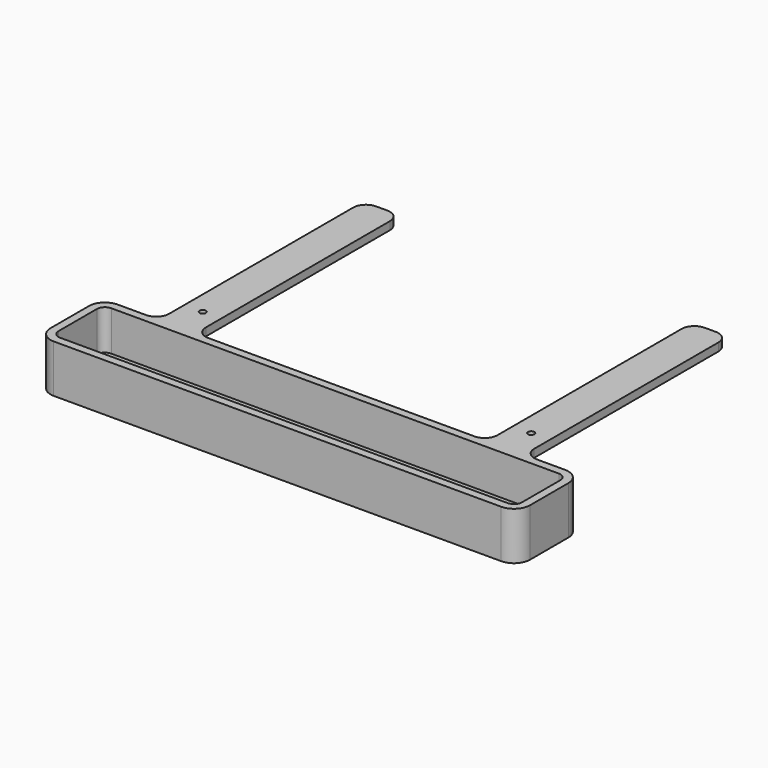
from build123d import *

# Parameters (mm, degrees)
F1_DEPTH = 15
F2_T     = -2.5
F3_DEPTH = 3
F4_DEPTH = 4
F5_R     = 0.5
F6_R     = 1
F7_START = 12.5
F0_R     = 1
F7_DEPTH = 2.5


with BuildPart() as f1:
    # F0 (on Top) → F1 (new body)
    with BuildSketch(Plane.XY):
        with BuildLine():
            ThreePointArc((75, 7.5), (73.5355339059, 11.0355339059), (70, 12.5))
            Line((70, 12.5), (61.1287162602, 12.5))
            Line((61.1287162602, 12.5), (41.6287162602, 12.5))
            Line((41.6287162602, 12.5), (-41.6287162602, 12.5))
            Line((-41.6287162602, 12.5), (-61.1287162602, 12.5))
            Line((-61.1287162602, 12.5), (-70, 12.5))
            ThreePointArc((-70, 12.5), (-73.5355339059, 11.0355339059), (-75, 7.5))
            Line((-75, 7.5), (-75, -7.5))
            ThreePointArc((-75, -7.5), (-73.5355339059, -11.0355339059), (-70, -12.5))
            Line((-70, -12.5), (70, -12.5))
            ThreePointArc((70, -12.5), (73.5355339059, -11.0355339059), (75, -7.5))
            Line((75, -7.5), (75, 7.5))
        make_face()
        with BuildLine():
            Line((-66.8997643389, 3), (66.8997643389, 3))
            ThreePointArc((66.8997643389, 3), (68.0313018263, 2.5313018263), (68.5, 1.3997643389))
            Line((68.5, 1.3997643389), (68.5, -1.3997643389))
            ThreePointArc((68.5, -1.3997643389), (68.0313018263, -2.5313018263), (66.8997643389, -3))
            Line((66.8997643389, -3), (-66.8997643389, -3))
            ThreePointArc((-66.8997643389, -3), (-68.0313018263, -2.5313018263), (-68.5, -1.3997643389))
            Line((-68.5, -1.3997643389), (-68.5, 1.3997643389))
            ThreePointArc((-68.5, 1.3997643389), (-68.0313018263, 2.5313018263), (-66.8997643389, 3))
        make_face(mode=Mode.SUBTRACT)
        with BuildLine():
            ThreePointArc((68.5, 1.3997643389), (68.0313018263, 2.5313018263), (66.8997643389, 3))
            Line((66.8997643389, 3), (-66.8997643389, 3))
            ThreePointArc((-66.8997643389, 3), (-68.0313018263, 2.5313018263), (-68.5, 1.3997643389))
            Line((-68.5, 1.3997643389), (-68.5, -1.3997643389))
            ThreePointArc((-68.5, -1.3997643389), (-68.0313018263, -2.5313018263), (-66.8997643389, -3))
            Line((-66.8997643389, -3), (66.8997643389, -3))
            ThreePointArc((66.8997643389, -3), (68.0313018263, -2.5313018263), (68.5, -1.3997643389))
            Line((68.5, -1.3997643389), (68.5, 1.3997643389))
        make_face()
        with BuildLine():
            ThreePointArc((67.5, -0.3997643389), (67.0313018263, -1.5313018263), (65.8997643389, -2))
            Line((65.8997643389, -2), (-65.8997643389, -2))
            ThreePointArc((-65.8997643389, -2), (-67.0313018263, -1.5313018263), (-67.5, -0.3997643389))
            Line((-67.5, -0.3997643389), (-67.5, 0.3997643389))
            ThreePointArc((-67.5, 0.3997643389), (-67.0313018263, 1.5313018263), (-65.8997643389, 2))
            Line((-65.8997643389, 2), (65.8997643389, 2))
            ThreePointArc((65.8997643389, 2), (67.0313018263, 1.5313018263), (67.5, 0.3997643389))
            Line((67.5, 0.3997643389), (67.5, -0.3997643389))
        make_face(mode=Mode.SUBTRACT)
        with BuildLine():
            Line((-65.8997643389, -2), (65.8997643389, -2))
            ThreePointArc((65.8997643389, -2), (67.0313018263, -1.5313018263), (67.5, -0.3997643389))
            Line((67.5, -0.3997643389), (67.5, 0.3997643389))
            ThreePointArc((67.5, 0.3997643389), (67.0313018263, 1.5313018263), (65.8997643389, 2))
            Line((65.8997643389, 2), (-65.8997643389, 2))
            ThreePointArc((-65.8997643389, 2), (-67.0313018263, 1.5313018263), (-67.5, 0.3997643389))
            Line((-67.5, 0.3997643389), (-67.5, -0.3997643389))
            ThreePointArc((-67.5, -0.3997643389), (-67.0313018263, -1.5313018263), (-65.8997643389, -2))
        make_face()
    extrude(amount=F1_DEPTH)

    # F2
    f2_openings = [f1.faces().sort_by_distance(p)[0] for p in [
        (0, 0, 15),
    ]]
    offset(amount=F2_T, openings=f2_openings)

    # F0 (on Top) → F3 (cut)
    with BuildSketch(Plane.XY):
        with BuildLine():
            Line((-65.8997643389, -2), (65.8997643389, -2))
            ThreePointArc((65.8997643389, -2), (67.0313018263, -1.5313018263), (67.5, -0.3997643389))
            Line((67.5, -0.3997643389), (67.5, 0.3997643389))
            ThreePointArc((67.5, 0.3997643389), (67.0313018263, 1.5313018263), (65.8997643389, 2))
            Line((65.8997643389, 2), (-65.8997643389, 2))
            ThreePointArc((-65.8997643389, 2), (-67.0313018263, 1.5313018263), (-67.5, 0.3997643389))
            Line((-67.5, 0.3997643389), (-67.5, -0.3997643389))
            ThreePointArc((-67.5, -0.3997643389), (-67.0313018263, -1.5313018263), (-65.8997643389, -2))
        make_face()
    extrude(amount=F3_DEPTH, mode=Mode.SUBTRACT)

    # F0 (on Top) → F4 (join)
    with BuildSketch(Plane.XY):
        with BuildLine():
            ThreePointArc((68.5, 1.3997643389), (68.0313018263, 2.5313018263), (66.8997643389, 3))
            Line((66.8997643389, 3), (-66.8997643389, 3))
            ThreePointArc((-66.8997643389, 3), (-68.0313018263, 2.5313018263), (-68.5, 1.3997643389))
            Line((-68.5, 1.3997643389), (-68.5, -1.3997643389))
            ThreePointArc((-68.5, -1.3997643389), (-68.0313018263, -2.5313018263), (-66.8997643389, -3))
            Line((-66.8997643389, -3), (66.8997643389, -3))
            ThreePointArc((66.8997643389, -3), (68.0313018263, -2.5313018263), (68.5, -1.3997643389))
            Line((68.5, -1.3997643389), (68.5, 1.3997643389))
        make_face()
        with BuildLine():
            ThreePointArc((67.5, -0.3997643389), (67.0313018263, -1.5313018263), (65.8997643389, -2))
            Line((65.8997643389, -2), (-65.8997643389, -2))
            ThreePointArc((-65.8997643389, -2), (-67.0313018263, -1.5313018263), (-67.5, -0.3997643389))
            Line((-67.5, -0.3997643389), (-67.5, 0.3997643389))
            ThreePointArc((-67.5, 0.3997643389), (-67.0313018263, 1.5313018263), (-65.8997643389, 2))
            Line((-65.8997643389, 2), (65.8997643389, 2))
            ThreePointArc((65.8997643389, 2), (67.0313018263, 1.5313018263), (67.5, 0.3997643389))
            Line((67.5, 0.3997643389), (67.5, -0.3997643389))
        make_face(mode=Mode.SUBTRACT)
    extrude(amount=-F4_DEPTH)

    # F5
    f5_edges = [f1.edges().sort_by_distance(p)[0] for p in [
        (0, -2, -4),
        (-67.031302, -1.531302, -4),
    ]]
    fillet(f5_edges, radius=F5_R)

    # F6
    f6_edges = [f1.edges().sort_by_distance(p)[0] for p in [
        (0, 2, 2.5),
    ]]
    fillet(f6_edges, radius=F6_R)

    # F0 (on Top) → F7 (join)
    with BuildSketch(Plane.XY.offset(F7_START)):
        with BuildLine():
            Line((41.6287162602, 12.5), (61.1287162602, 12.5))
            ThreePointArc((61.1287162602, 12.5), (58.3002891354, 13.6715728753), (57.1287162602, 16.5))
            Line((57.1287162602, 16.5), (57.1287162602, 88.5))
            ThreePointArc((57.1287162602, 88.5), (55.9571433849, 91.3284271247), (53.1287162602, 92.5))
            Line((53.1287162602, 92.5), (49.6287162602, 92.5))
            ThreePointArc((49.6287162602, 92.5), (46.8002891354, 91.3284271247), (45.6287162602, 88.5))
            Line((45.6287162602, 88.5), (45.6287162602, 16.5))
            ThreePointArc((45.6287162602, 16.5), (44.4571433849, 13.6715728753), (41.6287162602, 12.5))
        make_face()
        with Locations((51.3787162602, 22.5)):
            Circle(F0_R, mode=Mode.SUBTRACT)
        with BuildLine():
            Line((-61.1287162602, 12.5), (-41.6287162602, 12.5))
            ThreePointArc((-41.6287162602, 12.5), (-44.4571433849, 13.6715728753), (-45.6287162602, 16.5))
            Line((-45.6287162602, 16.5), (-45.6287162602, 88.5))
            ThreePointArc((-45.6287162602, 88.5), (-46.8002891354, 91.3284271247), (-49.6287162602, 92.5))
            Line((-49.6287162602, 92.5), (-53.1287162602, 92.5))
            ThreePointArc((-53.1287162602, 92.5), (-55.9571433849, 91.3284271247), (-57.1287162602, 88.5))
            Line((-57.1287162602, 88.5), (-57.1287162602, 16.5))
            ThreePointArc((-57.1287162602, 16.5), (-58.3002891354, 13.6715728753), (-61.1287162602, 12.5))
        make_face()
        with Locations((-51.3787162602, 22.5)):
            Circle(F0_R, mode=Mode.SUBTRACT)
    extrude(amount=F7_DEPTH)


solid = f1.part
